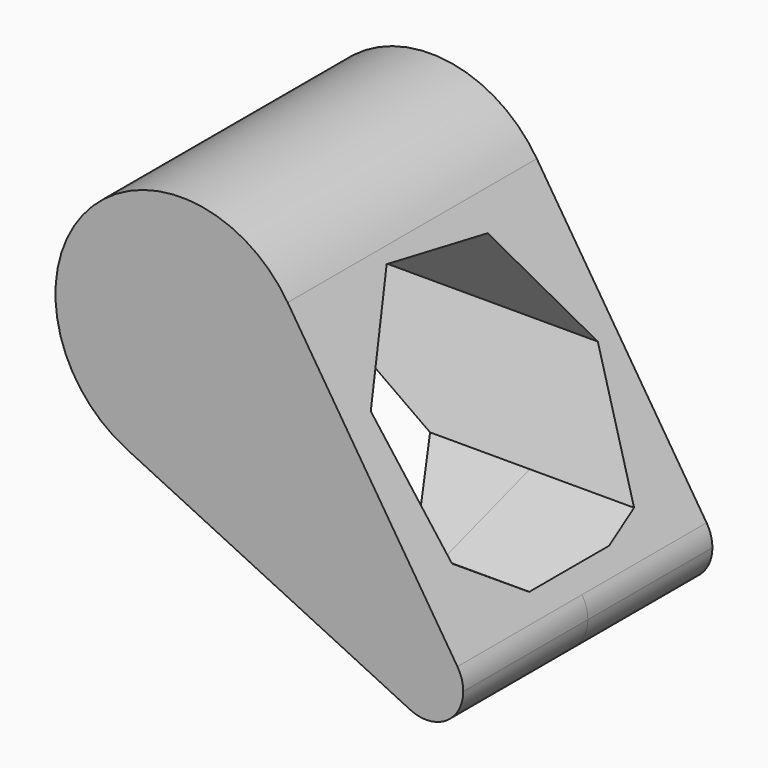
from build123d import *

# Parameters (mm, degrees)
F1_DEPTH      = 50.8
F3_DEPTH      = 110.998
F3_DEPTH_BACK = 36.83


with BuildPart() as f1:
    # F0 (on Front) → F1 (new body, symmetric)
    with BuildSketch(Plane.XZ):
        with BuildLine():
            ThreePointArc((-67.1143651523, 11.3118788967), (-27.3595519648, 13.4827854023), (-8.0827849332, 48.3190346183))
            ThreePointArc((-8.0827849332, 48.3190346183), (-9.7368789489, 59.8638451946), (-14.5660720417, 70.4797564755))
            ThreePointArc((-14.5660720417, 70.4797564755), (-79.9405579391, 75.6216888269), (-67.1143651523, 11.3118788967))
        make_face()
        with BuildLine():
            ThreePointArc((-14.5660720417, 70.4797564755), (-9.7368789489, 59.8638451946), (-8.0827849332, 48.3190346183))
            ThreePointArc((-8.0827849332, 48.3190346183), (-27.3595519648, 13.4827854023), (-67.1143651523, 11.3118788967))
            Line((-67.1143651523, 11.3118788967), (25.3778976938, -33.4652555138))
            ThreePointArc((25.3778976938, -33.4652555138), (21.608634566, -14.5663819856), (40.8203868988, -16.0774536137))
            Line((40.8203868988, -16.0774536137), (-14.5660720417, 70.4797564755))
        make_face()
        with BuildLine():
            ThreePointArc((42.7256455715, -22.589876526), (42.2395531131, -19.1971761709), (40.8203868988, -16.0774536137))
            ThreePointArc((40.8203868988, -16.0774536137), (21.608634566, -14.5663819856), (25.3778976938, -33.4652555138))
            ThreePointArc((25.3778976938, -33.4652555138), (37.0607371764, -32.8272861661), (42.7256455715, -22.589876526))
        make_face()
    extrude(amount=F1_DEPTH, both=True)

    # F2 (on Right) → F3 (cut, two sides)
    with BuildSketch(Plane.YZ) as f3_sk:
        Polygon((-13.2447925757, 66.9455137627), (-40.3845238139, 41.1189961655), (-37.1138849261, 3.7977295184), (-5.8957337036, -16.9146111783), (29.7620252487, -5.4212109251), (43.0083721541, 29.6231654646), (23.8685376165, 61.8293877944), align=None)
    extrude(amount=-F3_DEPTH, mode=Mode.SUBTRACT)
    extrude(f3_sk.sketch, amount=F3_DEPTH_BACK, mode=Mode.SUBTRACT)


solid = f1.part
